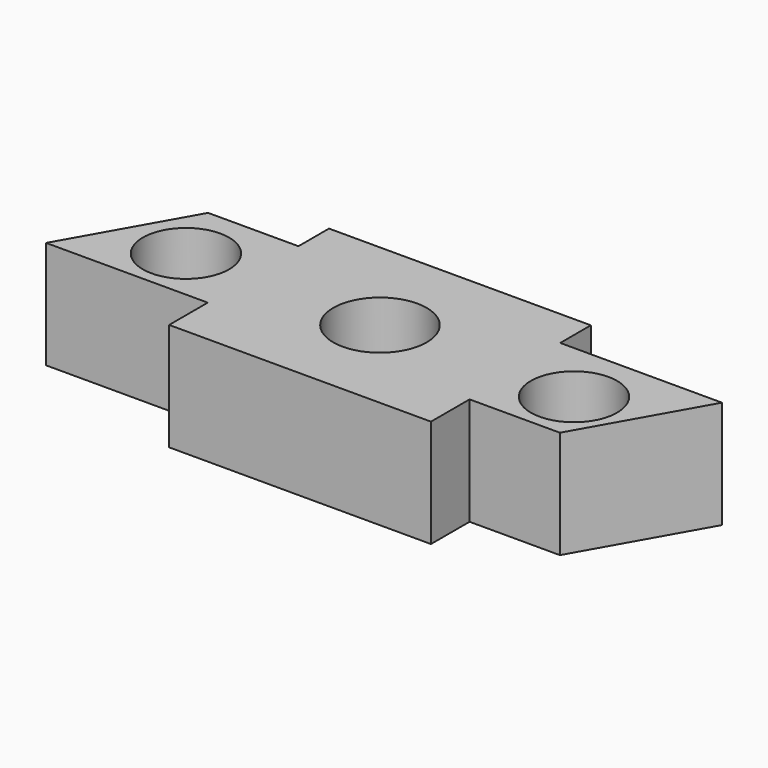
from build123d import *

# Parameters (mm, degrees)
F0_R     = 10.16
F1_DEPTH = 25.4


with BuildPart() as f1:
    # F0 (on Top) → F1 (new body)
    with BuildSketch(Plane.XY):
        with Locations((-45.72, 0)):
            Circle(F0_R)
        with BuildLine():
            ThreePointArc((55.88, 0), (45.72, 10.16), (35.56, 0))
            ThreePointArc((35.56, 0), (45.72, -10.16), (55.88, 0))
        make_face()
        Polygon((-31.35884, 15.172625), (-52.64404, 15.172625), (-68.4403, -12.807356), (-30.3403, -12.807356), (-30.3403, -24.1808), (31.3563, -24.1808), (31.358133, -12.807356), (52.643333, -12.807356), (68.4403, 15.173876), (30.3403, 15.173876), (30.3403, 24.1808), (-31.35884, 24.1808), align=None)
        with Locations((-45.72, 0)):
            Circle(F0_R, mode=Mode.SUBTRACT)
        with BuildLine():
            ThreePointArc((-11.0109, 0), (0, 11.0109), (11.0109, 0))
            ThreePointArc((11.0109, 0), (0, -11.0109), (-11.0109, 0))
        make_face(mode=Mode.SUBTRACT)
        with BuildLine():
            ThreePointArc((55.88, 0), (45.72, -10.16), (35.56, 0))
            ThreePointArc((35.56, 0), (45.72, 10.16), (55.88, 0))
        make_face(mode=Mode.SUBTRACT)
    extrude(amount=F1_DEPTH)


solid = f1.part
